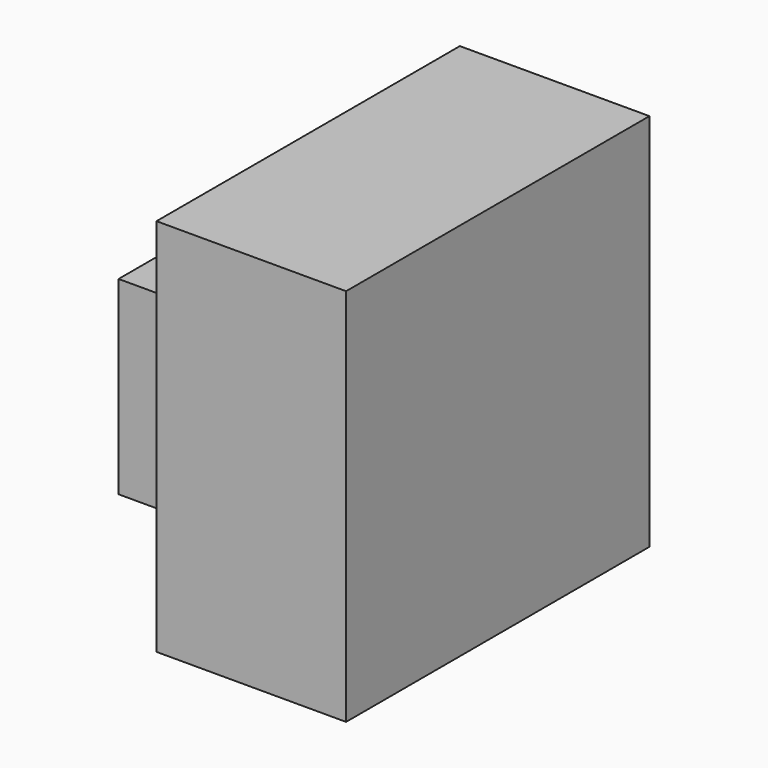
from build123d import *

# Parameters (mm, degrees)
F0_W     = 25.4
F0_H     = 50.8
F1_DEPTH = 50.8
F2_W     = 25.4
F2_H     = 25.4
F3_DEPTH = 25.4


with BuildPart() as f1:
    # F0 (on Front) → F1 (new body)
    with BuildSketch(Plane.XZ):
        with Locations((12.7, 25.4)):
            Rectangle(F0_W, F0_H)
    extrude(amount=F1_DEPTH)

    # F2 (on Right) → F3 (join)
    with BuildSketch(Plane.YZ):
        with Locations((-12.7, 12.7)):
            Rectangle(F2_W, F2_H)
    extrude(amount=-F3_DEPTH)


solid = f1.part
